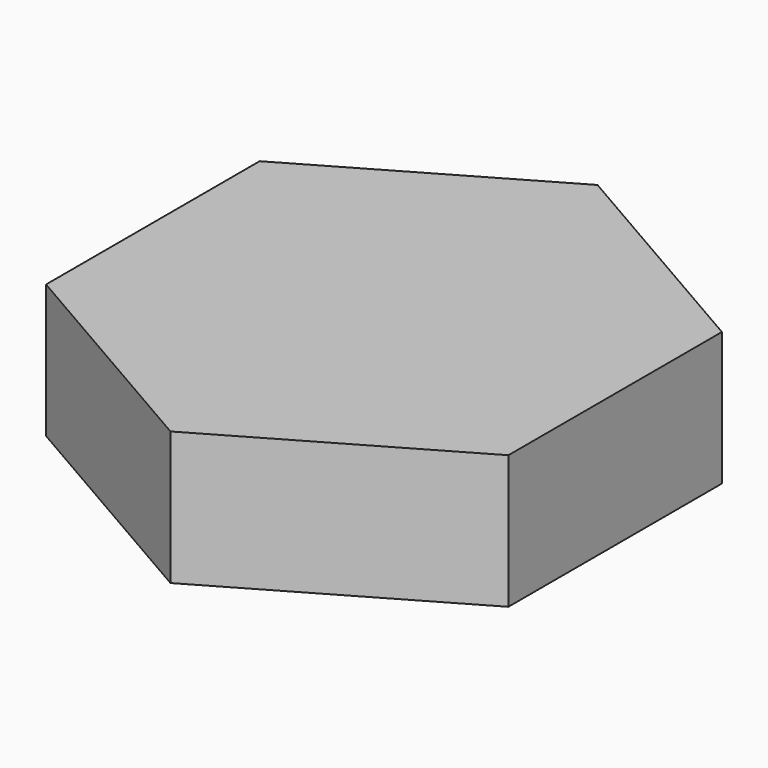
from build123d import *

# Parameters (mm, degrees)
PAD_DEPTH = 0.03


with BuildPart() as part:
    # Sketch001 → Pad (new body)
    with BuildSketch(Plane.XY):
        Polygon((0.051962, 0.03), (0.051962, -0.03), (0, -0.06), (-0.051962, -0.03), (-0.051962, 0.03), (0, 0.06), align=None)
    extrude(amount=PAD_DEPTH)


solid = part.part
